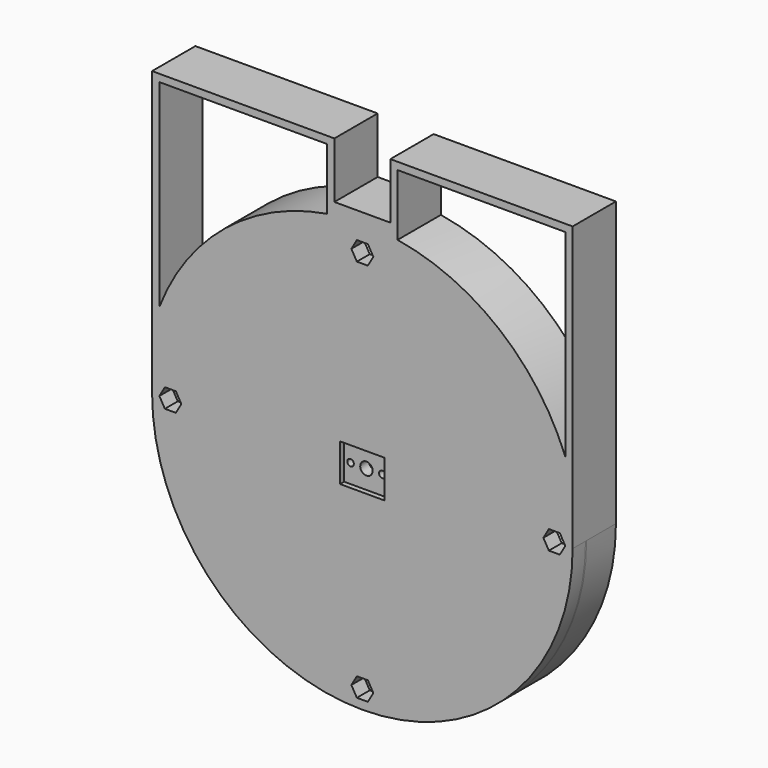
from build123d import *

# Parameters (mm, degrees)
SKETCH073_R     = 57.5
SKETCH073_R_2   = 50.2
PAD023_DEPTH    = 10
SKETCH074_R     = 57.5
SKETCH074_R_2   = 52.7
PAD024_DEPTH    = 10
SKETCH075_R     = 55.2
SKETCH075_R_2   = 45.630592
POCKET038_DEPTH = 10.001
SKETCH076_R     = 55.2
SKETCH076_R_2   = 52.7
PAD025_DEPTH    = 2.6
SKETCH077_R     = 57.5
SKETCH077_R_2   = 52.7
PAD026_DEPTH    = 0.4
SKETCH078_R     = 1.75
POCKET039_DEPTH = 5
SKETCH079_R     = 57.5
PAD027_DEPTH    = 4.4
SKETCH080_W     = 12.18
SKETCH080_H     = 10.29
POCKET040_DEPTH = 1.4
SKETCH081_R     = 1.7
POCKET041_DEPTH = 14.801
SKETCH082_R     = 0.9
POCKET042_DEPTH = 14.801
SKETCH083_R     = 1.55
POCKET043_DEPTH = 1
PAD028_DEPTH    = 14.8


with BuildPart() as part:
    # Sketch073 (on DatumPlane) → Pad023 (new body)
    with BuildSketch(Plane.XZ.offset(10)):
        Circle(SKETCH073_R)
        Circle(SKETCH073_R_2, mode=Mode.SUBTRACT)
    extrude(amount=-PAD023_DEPTH)

    # Sketch074 (on DatumPlane) → Pad024 (new body)
    with BuildSketch(Plane.XZ.offset(10)):
        Circle(SKETCH074_R)
        Circle(SKETCH074_R_2, mode=Mode.SUBTRACT)
    extrude(amount=-PAD024_DEPTH)

    # Sketch075 (on Face4 of PolarPattern008) → Pocket038 (cut, through all)
    with BuildSketch(Plane.XZ.offset(10)):
        Circle(SKETCH075_R)
        Circle(SKETCH075_R_2, mode=Mode.SUBTRACT)
    extrude(amount=-POCKET038_DEPTH, mode=Mode.SUBTRACT)

    # Sketch076 (on Face2 of Pocket038) → Pad025 (new body)
    with BuildSketch(Plane.XZ.offset(10)):
        Circle(SKETCH076_R)
        Circle(SKETCH076_R_2, mode=Mode.SUBTRACT)
    extrude(amount=-PAD025_DEPTH)

    # Sketch077 (on Face6 of Pad025) → Pad026 (new body)
    with BuildSketch(Plane.XZ.offset(10)):
        Circle(SKETCH077_R)
        Circle(SKETCH077_R_2, mode=Mode.SUBTRACT)
    extrude(amount=PAD026_DEPTH)

    # Sketch078 (on Face5 of Pad026) → Pocket039 (cut)
    with BuildSketch(Plane.XZ.offset(10.4)):
        with Locations((0, -52.5)):
            Circle(SKETCH078_R)
        with Locations((-52.5, 0)):
            Circle(SKETCH078_R)
        with Locations((0, 52.5)):
            Circle(SKETCH078_R)
        with Locations((52.5, 0)):
            Circle(SKETCH078_R)
    extrude(amount=-POCKET039_DEPTH, mode=Mode.SUBTRACT)

    # Sketch079 (on Face4 of Pocket039) → Pad027 (new body)
    with BuildSketch(Plane.XZ.offset(10.4)):
        Circle(SKETCH079_R)
        Polygon((3, -52.5), (1.5, -49.901924), (-1.5, -49.901924), (-3, -52.5), (-1.5, -55.098076), (1.5, -55.098076), align=None, mode=Mode.SUBTRACT)
        Polygon((3, 52.5), (1.5, 55.098076), (-1.5, 55.098076), (-3, 52.5), (-1.5, 49.901924), (1.5, 49.901924), align=None, mode=Mode.SUBTRACT)
        Polygon((-49.5, 0), (-51, 2.598076), (-54, 2.598076), (-55.5, 0), (-54, -2.598076), (-51, -2.598076), align=None, mode=Mode.SUBTRACT)
        Polygon((55.5, 0), (54, 2.598076), (51, 2.598076), (49.5, 0), (51, -2.598076), (54, -2.598076), align=None, mode=Mode.SUBTRACT)
    extrude(amount=PAD027_DEPTH)

    # Sketch080 (on Face13 of Pad027) → Pocket040 (cut)
    with BuildSketch(Plane.XZ.offset(14.8)):
        Rectangle(SKETCH080_W, SKETCH080_H)
    extrude(amount=-POCKET040_DEPTH, mode=Mode.SUBTRACT)

    # Sketch081 (on Face4 of Pocket040) → Pocket041 (cut, through all)
    with BuildSketch(Plane.XZ.offset(14.8)):
        Circle(SKETCH081_R)
    extrude(amount=-POCKET041_DEPTH, mode=Mode.SUBTRACT)

    # Sketch082 (on Face4 of Pocket041) → Pocket042 (cut, through all)
    with BuildSketch(Plane.XZ.offset(14.8)):
        with Locations((-4.35, 0)):
            Circle(SKETCH082_R)
        with Locations((4.35, 0)):
            Circle(SKETCH082_R)
    extrude(amount=-POCKET042_DEPTH, mode=Mode.SUBTRACT)

    # Sketch083 (on Face42 of Pocket042) → Pocket043 (cut)
    with BuildSketch(Plane(origin=(0, -10.4, 0), x_dir=(1, 0, 0), z_dir=(0, 1, 0))):
        with Locations((-4.35, 0)):
            Circle(SKETCH083_R)
        with Locations((4.35, 0)):
            Circle(SKETCH083_R)
    extrude(amount=-POCKET043_DEPTH, mode=Mode.SUBTRACT)

    # Sketch084 (on Face1 of Pocket043) → Pad028 (new body)
    with BuildSketch(Plane(origin=(0, 0, 0), x_dir=(1, 0, 0), z_dir=(0, 1, 0))):
        with BuildLine():
            Line((-7.65, -62.26), (7.65, -62.26))
            Line((7.65, -62.26), (7.65, -77.56))
            Line((7.65, -77.56), (57.5, -77.56))
            Line((57.5, 0), (57.5, -77.56))
            ThreePointArc((-57.5, 0), (0, -57.5), (57.5, 0))
            Line((-57.5, 0), (-57.5, -77.56))
            Line((-57.5, -77.56), (-7.65, -77.56))
            Line((-7.65, -62.26), (-7.65, -77.56))
        make_face()
        with BuildLine():
            Line((9.640661, -58.760865), (9.65, -75.56))
            Line((9.65, -75.56), (55.5, -75.56))
            Line((55.500076, -21.447651), (55.5, -75.56))
            ThreePointArc((9.640661, -58.760865), (37.533805, -46.204517), (55.500076, -21.447651))
        make_face(mode=Mode.SUBTRACT)
        with BuildLine():
            Line((-9.65, -75.56), (-55.5, -75.56))
            Line((-55.500076, -21.447651), (-55.5, -75.56))
            ThreePointArc((-55.500076, -21.447651), (-37.533805, -46.204517), (-9.640661, -58.760865))
            Line((-9.640661, -58.760865), (-9.65, -75.56))
        make_face(mode=Mode.SUBTRACT)
    extrude(amount=-PAD028_DEPTH)


solid = part.part
